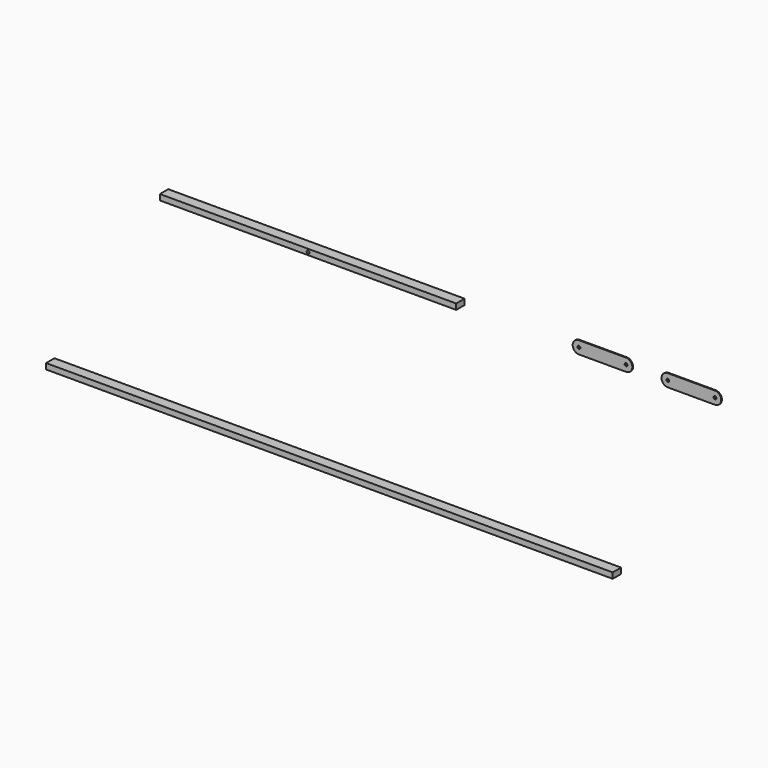
from build123d import *

# Parameters (mm, degrees)
F0_W     = 635
F0_H     = 6.35
F0_W_2   = 332.1304
F0_R     = 1.5875
F1_DEPTH = 11.7348
F2_DEPTH = 11.7348
F3_R     = 1.5875
F4_DEPTH = 1.016


with BuildPart() as f1:
    # F0 (on Front) → F1 (new body)
    with BuildSketch(Plane.XZ):
        with Locations((-56.189019, -29.221167)):
            Rectangle(F0_W, F0_H)
        with Locations((-80.121399, 179.028774)):
            Rectangle(F0_W_2, F0_H)
        with Locations((-80.121399, 179.028774)):
            Circle(F0_R, mode=Mode.SUBTRACT)
    extrude(amount=F1_DEPTH)


with BuildPart() as f2:
    # F0 (on Front) → F2 (new body)
    with BuildSketch(Plane.XZ):
        with Locations((-56.189019, -29.221167)):
            Rectangle(F0_W, F0_H)
        with Locations((-80.121399, 179.028774)):
            Rectangle(F0_W_2, F0_H)
        with Locations((-80.121399, 179.028774)):
            Circle(F0_R, mode=Mode.SUBTRACT)
    extrude(amount=F2_DEPTH)


with BuildPart() as f4:
    # F3 (on Front) → F4 (new body)
    with BuildSketch(Plane.XZ):
        with BuildLine():
            Line((267.727276, 183.517592), (214.895276, 183.517592))
            ThreePointArc((214.895276, 183.517592), (207.888375, 176.510692), (214.895276, 169.503791))
            Line((214.895276, 169.503791), (267.727276, 169.503791))
            ThreePointArc((267.727276, 169.503791), (274.734177, 176.510692), (267.727276, 183.517592))
        make_face()
        with Locations((214.895276, 176.510692)):
            Circle(F3_R, mode=Mode.SUBTRACT)
        with Locations((267.727276, 176.510692)):
            Circle(F3_R, mode=Mode.SUBTRACT)
        with BuildLine():
            Line((367.295276, 183.424743), (314.463276, 183.424743))
            ThreePointArc((314.463276, 183.424743), (307.456375, 176.417843), (314.463276, 169.410942))
            Line((314.463276, 169.410942), (367.295276, 169.410942))
            ThreePointArc((367.295276, 169.410942), (374.302177, 176.417843), (367.295276, 183.424743))
        make_face()
        with Locations((314.463276, 176.417843)):
            Circle(F3_R, mode=Mode.SUBTRACT)
        with Locations((367.295276, 176.417843)):
            Circle(F3_R, mode=Mode.SUBTRACT)
    extrude(amount=F4_DEPTH)


solid = Compound([f1.part, f2.part, f4.part])
